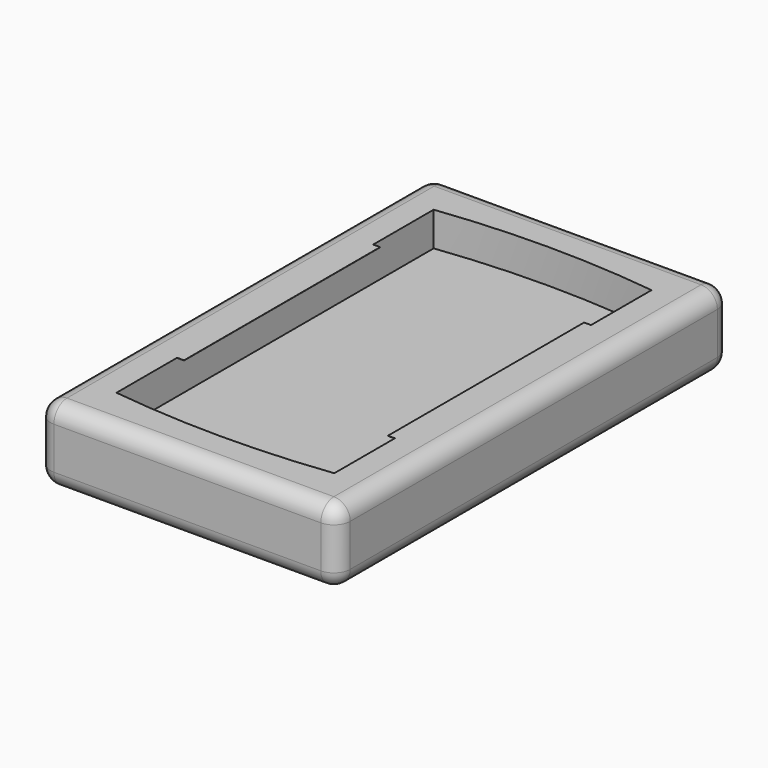
from build123d import *

# Parameters (mm, degrees)
F1_DEPTH = 12.7
F0_W     = 93.1164
F0_H     = 152.805166
F2_DEPTH = 23.2918
F3_R     = 5.08
F4_W     = 76.2
F4_H     = 0.0508
F5_DEPTH = 2.159
F6_W     = 76.2
F6_H     = 0.0508
F7_DEPTH = 2.159


with BuildPart() as f1:
    # F0 (on Top) → F1 (new body)
    with BuildSketch(Plane.XY):
        with BuildLine():
            Line((33.8582, -61.6204), (33.8582, 61.6204))
            ThreePointArc((33.8582, 61.6204), (0, 63.702583), (-33.8582, 61.6204))
            Line((-33.8582, 61.6204), (-33.8582, -61.6204))
            ThreePointArc((-33.8582, -61.6204), (0, -63.702583), (33.8582, -61.6204))
        make_face()
    extrude(amount=F1_DEPTH)

    # F0 (on Top) → F2 (join)
    with BuildSketch(Plane.XY):
        Rectangle(F0_W, F0_H)
        with BuildLine():
            ThreePointArc((-33.8582, 61.6204), (0, 63.702583), (33.8582, 61.6204))
            Line((33.8582, 61.6204), (33.8582, -61.6204))
            ThreePointArc((33.8582, -61.6204), (0, -63.702583), (-33.8582, -61.6204))
            Line((-33.8582, -61.6204), (-33.8582, 61.6204))
        make_face(mode=Mode.SUBTRACT)
    extrude(amount=F2_DEPTH)

    # F3
    f3_edges = [f1.edges().sort_by_distance(p)[0] for p in [
        (46.5582, 76.402583, 11.6459),
        (-46.5582, 76.402583, 11.6459),
        (0, 76.402583, 0),
        (0, 76.402583, 23.2918),
        (46.5582, -76.402583, 11.6459),
        (46.5582, 0, 0),
        (46.5582, 0, 23.2918),
        (-46.5582, -76.402583, 11.6459),
        (-46.5582, 0, 0),
        (-46.5582, 0, 23.2918),
        (0, -76.402583, 0),
        (0, -76.402583, 23.2918),
    ]]
    fillet(f3_edges, radius=F3_R)

    # F4 (on face) → F5 (join)
    with BuildSketch(Plane.YZ.offset(-33.8582)):
        with Locations((0.031095, 23.2664)):
            Rectangle(F4_W, F4_H)
    extrude(amount=F5_DEPTH)

    # F6 (on face) → F7 (join)
    with BuildSketch(Plane(origin=(33.8582, 0, 0), x_dir=(0, -1, 0), z_dir=(-1, 0, 0))):
        with Locations((0, 23.2664)):
            Rectangle(F6_W, F6_H)
    extrude(amount=F7_DEPTH)


solid = f1.part
